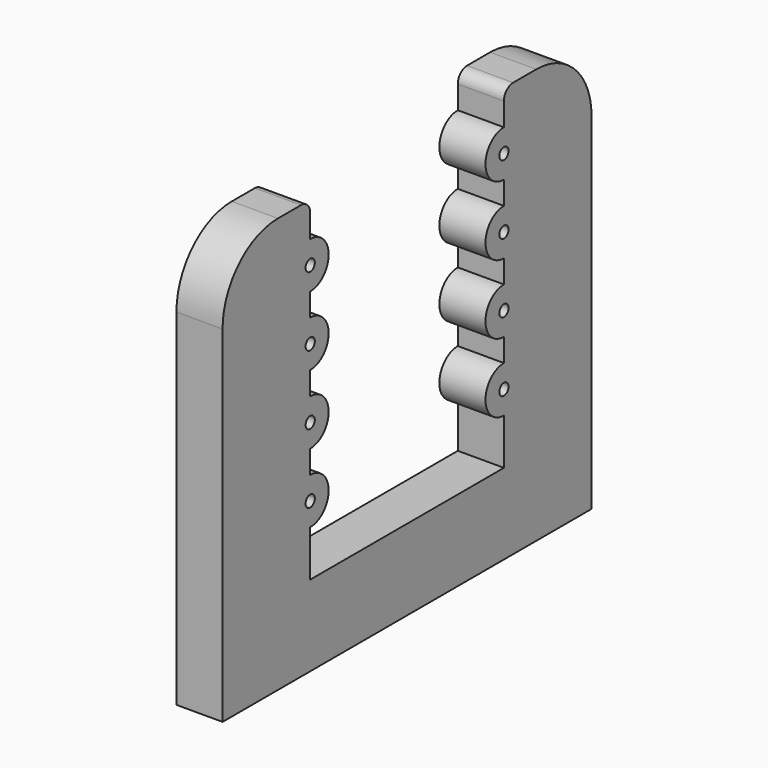
from build123d import *

# Parameters (mm, degrees)
CYLINDER001_R     = 0.5
CYLINDER001_DEPTH = 4
ARRAY001_Y_COUNT  = 2
ARRAY001_Y_PITCH  = 21
ARRAY001_Z_COUNT  = 4
ARRAY001_Z_PITCH  = 6
BOX001_W          = 4
BOX001_H          = 21
BOX001_DEPTH      = 74
BOX_W             = 4
BOX_H             = 40
BOX_DEPTH         = 36
FILLET001_R       = 6
FILLET004_R       = 1
CYLINDER_R        = 2
CYLINDER_DEPTH    = 4
ARRAY_Y_COUNT     = 2
ARRAY_Y_PITCH     = 21
ARRAY_Z_COUNT     = 4
ARRAY_Z_PITCH     = 6


with BuildPart() as camera_hole_array:
    # Cylinder001 → Cylinder001 (new body)
    with BuildSketch(Plane(origin=(0, 0, 0), x_dir=(0, 0, -1), z_dir=(1, 0, 0))):
        Circle(CYLINDER001_R)
    extrude(amount=CYLINDER001_DEPTH)

    # Array001 Y: camera hole array ×2


with BuildPart() as camera_hole_array_1:
    add(camera_hole_array.part)
    with Locations(*[(0, i * ARRAY001_Y_PITCH, 0) for i in range(1, ARRAY001_Y_COUNT)]):
        add(camera_hole_array.part)

    # Array001 Z: camera hole array ×4


with BuildPart() as camera_hole_array_2:
    add(camera_hole_array_1.part)
    with Locations(*[(0, 0, i * ARRAY001_Z_PITCH) for i in range(1, ARRAY001_Z_COUNT)]):
        add(camera_hole_array_1.part)


with BuildPart() as camera_hole_array_3:
    # Array001 placement: moved
    add(camera_hole_array_2.part.moved(Location((0, 7, 2))))


with BuildPart() as camera_plate_hole:
    # Box001 → Box001 (new body)
    with BuildSketch(Plane(origin=(0, 7, -4), x_dir=(1, 0, 0), z_dir=(0, 0, 1))):
        with Locations((2, 10.5)):
            Rectangle(BOX001_W, BOX001_H)
    extrude(amount=BOX001_DEPTH)


with BuildPart() as camera_plate_cut_fillet:
    # Box → Box (new body)
    with BuildSketch(Plane(origin=(0, -2.5, -11), x_dir=(1, 0, 0), z_dir=(0, 0, 1))):
        with Locations((2, 20)):
            Rectangle(BOX_W, BOX_H)
    extrude(amount=BOX_DEPTH)

    # Fillet001
    fillet001_edges = [camera_plate_cut_fillet.edges().sort_by_distance(p)[0] for p in [
        (2, -2.5, 25),
        (2, 37.5, 25),
    ]]
    fillet(fillet001_edges, radius=FILLET001_R)

    # Cut001: cut camera plate hole
    add(camera_plate_hole.part, mode=Mode.SUBTRACT)

    # Fillet004
    fillet004_edges = [camera_plate_cut_fillet.edges().sort_by_distance(p)[0] for p in [
        (2, 7, 25),
        (2, 28, 25),
    ]]
    fillet(fillet004_edges, radius=FILLET004_R)


with BuildPart() as camera_holder_cut:
    # Cylinder → Cylinder (new body)
    with BuildSketch(Plane(origin=(0, 0, 0), x_dir=(0, 0, -1), z_dir=(1, 0, 0))):
        Circle(CYLINDER_R)
    extrude(amount=CYLINDER_DEPTH)

    # Array Y: camera holder cut ×2


with BuildPart() as camera_holder_cut_1:
    add(camera_holder_cut.part)
    with Locations(*[(0, i * ARRAY_Y_PITCH, 0) for i in range(1, ARRAY_Y_COUNT)]):
        add(camera_holder_cut.part)

    # Array Z: camera holder cut ×4


with BuildPart() as camera_holder_cut_2:
    add(camera_holder_cut_1.part)
    with Locations(*[(0, 0, i * ARRAY_Z_PITCH) for i in range(1, ARRAY_Z_COUNT)]):
        add(camera_holder_cut_1.part)


with BuildPart() as camera_holder_cut_3:
    # Array placement: moved
    add(camera_holder_cut_2.part.moved(Location((0, 7, 2))))

    # Fusion: union camera plate cut fillet
    add(camera_plate_cut_fillet.part)

    # Cut: cut camera hole array
    add(camera_hole_array_3.part, mode=Mode.SUBTRACT)


with BuildPart() as camera_holder_cut_4:
    # Cut placement: moved
    add(camera_holder_cut_3.part.moved(Location((-10, 11, 11))))


solid = camera_holder_cut_4.part
